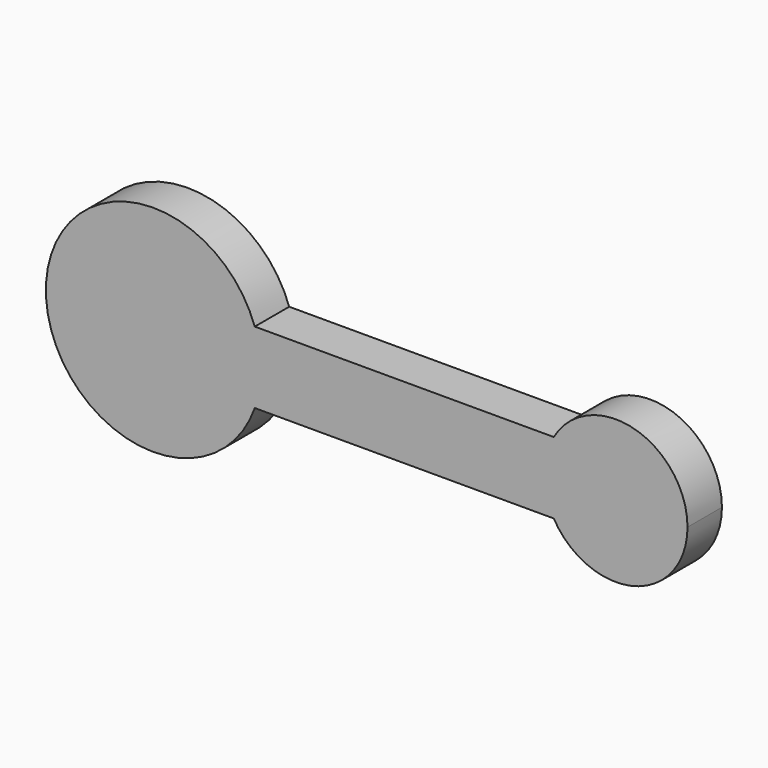
from build123d import *

# Parameters (mm, degrees)
F1_DEPTH = 12


with BuildPart() as f1:
    # F0 (on Front) → F1 (new body)
    with BuildSketch(Plane.XZ):
        with BuildLine():
            Line((-64.5, -10), (-64.5, 10))
            Line((-64.5, 10), (-36.2157287525, 10))
            ThreePointArc((-36.2157287525, 10), (-94.5, 0), (-36.2157287525, -10))
            Line((-36.2157287525, -10), (-64.5, -10))
        make_face()
        with BuildLine():
            Line((-36.2157287525, 10), (-64.5, 10))
            Line((-64.5, 10), (-64.5, -10))
            Line((-64.5, -10), (-36.2157287525, -10))
            ThreePointArc((-36.2157287525, -10), (-34.9320432104, -5.0730593618), (-34.5, 0))
            ThreePointArc((-34.5, 0), (-34.9320432104, 5.0730593618), (-36.2157287525, 10))
        make_face()
        with BuildLine():
            Line((47.1794919243, 10), (-36.2157287525, 10))
            ThreePointArc((-36.2157287525, 10), (-34.9320432104, 5.0730593618), (-34.5, 0))
            ThreePointArc((-34.5, 0), (-34.9320432104, -5.0730593618), (-36.2157287525, -10))
            Line((-36.2157287525, -10), (47.1794919243, -10))
            ThreePointArc((47.1794919243, -10), (44.5, 0), (47.1794919243, 10))
        make_face()
        with BuildLine():
            ThreePointArc((84.5, 0), (69.6763809021, 19.3185165258), (47.1794919243, 10))
            Line((47.1794919243, 10), (64.5, 10))
            Line((64.5, 10), (64.5, -10))
            Line((64.5, -10), (47.1794919243, -10))
            ThreePointArc((47.1794919243, -10), (69.6763809021, -19.3185165258), (84.5, 0))
        make_face()
        with BuildLine():
            Line((64.5, 10), (47.1794919243, 10))
            ThreePointArc((47.1794919243, 10), (44.5, 0), (47.1794919243, -10))
            Line((47.1794919243, -10), (64.5, -10))
            Line((64.5, -10), (64.5, 10))
        make_face()
    extrude(amount=-F1_DEPTH)


solid = f1.part
